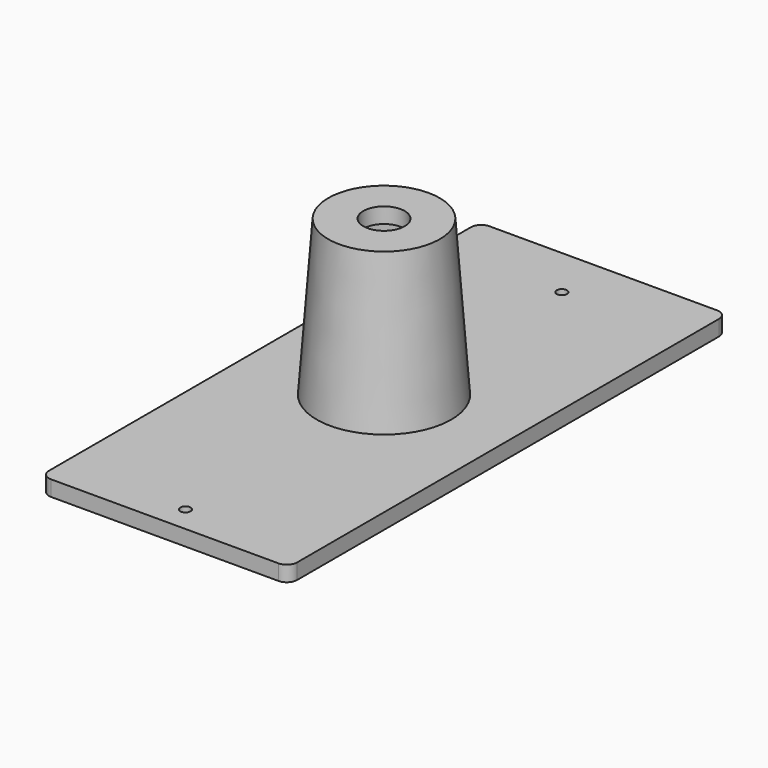
from build123d import *

# Parameters (mm, degrees)
F0_R     = 1
F0_R_2   = 10
F1_DEPTH = 3
F4_R     = 4
F5_DEPTH = 33.001


with BuildPart() as f1:
    # F0 (on Top) → F1 (new body)
    with BuildSketch(Plane.XY):
        with BuildLine():
            Line((22, 53), (-22, 53))
            ThreePointArc((-22, 53), (-23.414214, 52.414214), (-24, 51))
            Line((-24, 51), (-24, -51))
            ThreePointArc((-24, -51), (-23.414214, -52.414214), (-22, -53))
            Line((-22, -53), (22, -53))
            ThreePointArc((22, -53), (23.414214, -52.414214), (24, -51))
            Line((24, -51), (24, 51))
            ThreePointArc((24, 51), (23.414214, 52.414214), (22, 53))
        make_face()
        with Locations((0, -48)):
            Circle(F0_R, mode=Mode.SUBTRACT)
        Circle(F0_R_2, mode=Mode.SUBTRACT)
        with Locations((0, 43)):
            Circle(F0_R, mode=Mode.SUBTRACT)
    extrude(amount=F1_DEPTH)

    # F2 (on Right) → F3 (revolve)
    with BuildSketch(Plane.YZ):
        Polygon((8, 30), (10, 3), (13.008219, 3), (10.785997, 33), (0, 33), (0, 30), align=None)
    revolve(axis=Axis((0, 0, 4.326884), (0, 0, 1)))

    # F4 (on face) → F5 (cut, through all)
    with BuildSketch(Plane.XY.offset(33)):
        Circle(F4_R)
    extrude(amount=-F5_DEPTH, mode=Mode.SUBTRACT)


solid = f1.part
